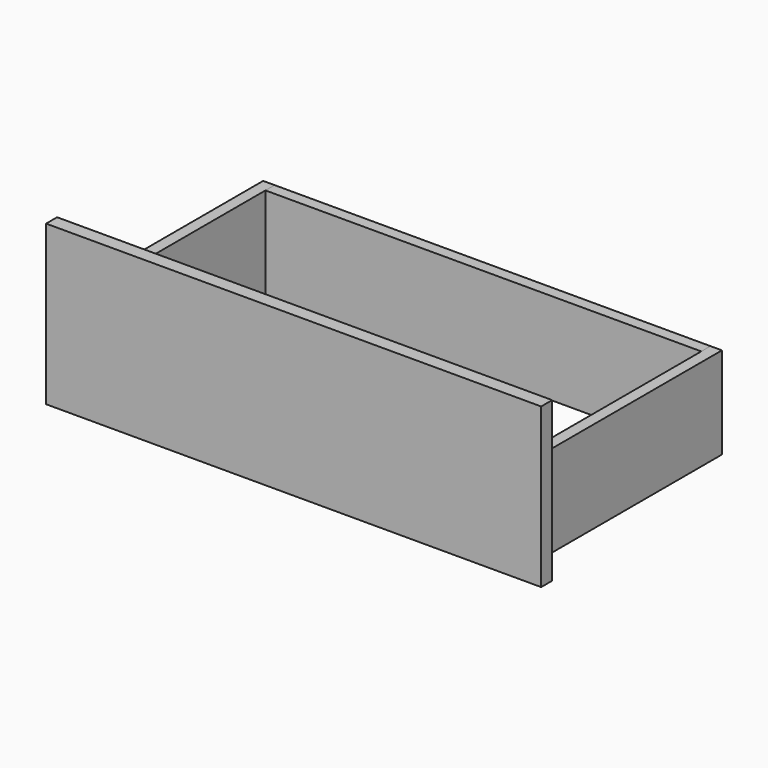
from build123d import *

# Parameters (mm, degrees)
F0_W     = 570
F0_H     = 120
F1_DEPTH = 15
F2_W     = 15
F2_H     = 120
F3_DEPTH = 300
F4_W     = 15
F4_H     = 120
F5_DEPTH = 570
F6_W     = 647.5
F6_H     = 208
F7_DEPTH = 18


with BuildPart() as f1:
    # F0 (on Front) → F1 (new body)
    with BuildSketch(Plane.XZ):
        with Locations((0, 60)):
            Rectangle(F0_W, F0_H)
    extrude(amount=F1_DEPTH)


with BuildPart() as f3:
    # F2 (on face) → F3 (new body)
    with BuildSketch(Plane.XZ.offset(15)):
        with Locations((292.5, 60)):
            Rectangle(F2_W, F2_H)
        with Locations((-292.5, 60)):
            Rectangle(F2_W, F2_H)
    extrude(amount=-F3_DEPTH)


with BuildPart() as f5:
    # F4 (on face) → F5 (new body, through all)
    with BuildSketch(Plane(origin=(285, 0, 0), x_dir=(0, -1, 0), z_dir=(-1, 0, 0))):
        with Locations((-277.5, 60)):
            Rectangle(F4_W, F4_H)
    extrude(amount=F5_DEPTH)


with BuildPart() as f7:
    # F6 (on face) → F7 (new body)
    with BuildSketch(Plane.XZ.offset(15)):
        with Locations((-5.75, 86.5)):
            Rectangle(F6_W, F6_H)
    extrude(amount=F7_DEPTH)


solid = Compound([f1.part, f3.part, f5.part, f7.part])
